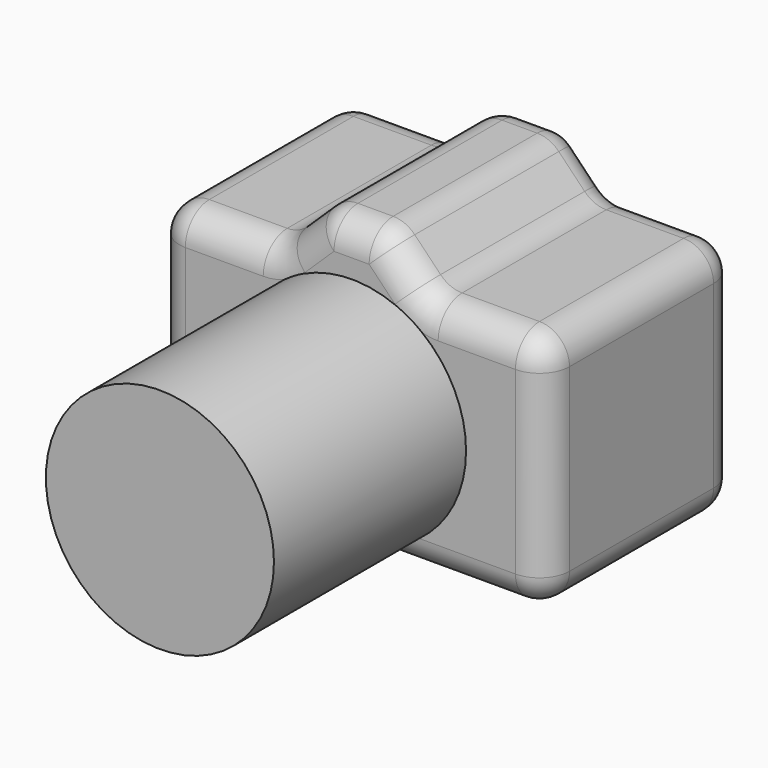
from build123d import *

# Parameters (mm, degrees)
PAD_DEPTH    = 80
FILLET_R     = 10
SKETCH001_R  = 38
PAD001_DEPTH = 160


with BuildPart() as part:
    # Sketch → Pad (new body)
    with BuildSketch(Plane.XZ):
        Polygon((-62.473045, -51.467136), (67.526955, -51.467136), (67.526955, 28.532864), (27.526955, 28.532864), (13.0149, 43.531436), (-6.9851, 43.531436), (-22.473045, 28.532864), (-62.473045, 28.532864), align=None)
    extrude(amount=PAD_DEPTH)

    # Fillet
    fillet_edges = [part.edges().sort_by_distance(p)[0] for p in [
        (27.526955, -40, 28.532864),
        (-22.473045, -40, 28.532864),
        (-6.9851, -40, 43.531436),
        (13.0149, -40, 43.531436),
        (-62.473045, -40, 28.532864),
        (67.526955, -40, 28.532864),
        (67.526955, -40, -51.467136),
        (-62.473045, -40, -51.467136),
        (-62.473045, -80, -11.467136),
        (2.526955, -80, -51.467136),
        (67.526955, -80, -11.467136),
        (67.526955, 0, -11.467136),
        (2.526955, 0, -51.467136),
        (47.526955, 0, 28.532864),
        (20.270928, 0, 36.03215),
        (3.0149, 0, 43.531436),
        (-14.729072, 0, 36.03215),
        (-42.473045, 0, 28.532864),
        (-62.473045, 0, -11.467136),
        (-42.473045, -80, 28.532864),
        (-14.729072, -80, 36.03215),
        (3.0149, -80, 43.531436),
        (20.270928, -80, 36.03215),
        (47.526955, -80, 28.532864),
    ]]
    fillet(fillet_edges, radius=FILLET_R)

    # Sketch001 → Pad001 (join)
    with BuildSketch(Plane.XZ):
        with Locations((3.063112, -10.729656)):
            Circle(SKETCH001_R)
    extrude(amount=PAD001_DEPTH)


solid = part.part
